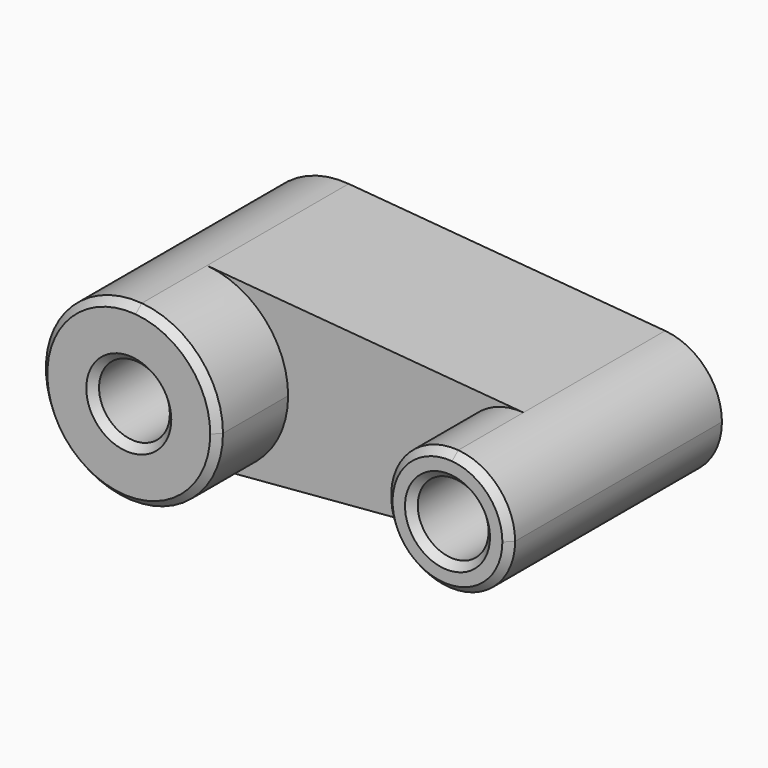
from build123d import *

# Parameters (mm, degrees)
F0_R     = 10
F1_DEPTH = 50
F2_DEPTH = 75
F3_SIZE  = 2


with BuildPart() as f1:
    # F0 (on Front) → F1 (new body)
    with BuildSketch(Plane.XZ):
        with BuildLine():
            ThreePointArc((2.083333, 24.913043), (18.399502, 16.92508), (25, 0))
            ThreePointArc((25, 0), (18.399502, -16.92508), (2.083333, -24.913043))
            Line((2.083333, -24.913043), (91.458333, -17.43913))
            ThreePointArc((91.458333, -17.43913), (72.5, 0), (91.458333, 17.43913))
            Line((91.458333, 17.43913), (2.083333, 24.913043))
        make_face()
        with BuildLine():
            ThreePointArc((2.083333, -24.913043), (18.399502, -16.92508), (25, 0))
            ThreePointArc((25, 0), (18.399502, 16.92508), (2.083333, 24.913043))
            ThreePointArc((2.083333, 24.913043), (-25, 0), (2.083333, -24.913043))
        make_face()
        Circle(F0_R, mode=Mode.SUBTRACT)
        with BuildLine():
            ThreePointArc((107.5, 0), (102.879651, 11.847556), (91.458333, 17.43913))
            ThreePointArc((91.458333, 17.43913), (72.5, 0), (91.458333, -17.43913))
            ThreePointArc((91.458333, -17.43913), (102.879651, -11.847556), (107.5, 0))
        make_face()
        with Locations((90, 0)):
            Circle(F0_R, mode=Mode.SUBTRACT)
    extrude(amount=F1_DEPTH)

    # F0 (on Front) → F2 (join)
    with BuildSketch(Plane.XZ):
        with BuildLine():
            ThreePointArc((2.083333, -24.913043), (18.399502, -16.92508), (25, 0))
            ThreePointArc((25, 0), (18.399502, 16.92508), (2.083333, 24.913043))
            ThreePointArc((2.083333, 24.913043), (-25, 0), (2.083333, -24.913043))
        make_face()
        Circle(F0_R, mode=Mode.SUBTRACT)
        with BuildLine():
            ThreePointArc((107.5, 0), (102.879651, 11.847556), (91.458333, 17.43913))
            ThreePointArc((91.458333, 17.43913), (72.5, 0), (91.458333, -17.43913))
            ThreePointArc((91.458333, -17.43913), (102.879651, -11.847556), (107.5, 0))
        make_face()
        with Locations((90, 0)):
            Circle(F0_R, mode=Mode.SUBTRACT)
    extrude(amount=F2_DEPTH)

    # F3
    f3_edges = [f1.edges().sort_by_distance(p)[0] for p in [
        (-10, -75, 0),
        (-2.083333, -75, 24.913043),
        (80, -75, 0),
        (88.541667, -75, 17.43913),
    ]]
    chamfer(f3_edges, length=F3_SIZE)


solid = f1.part
